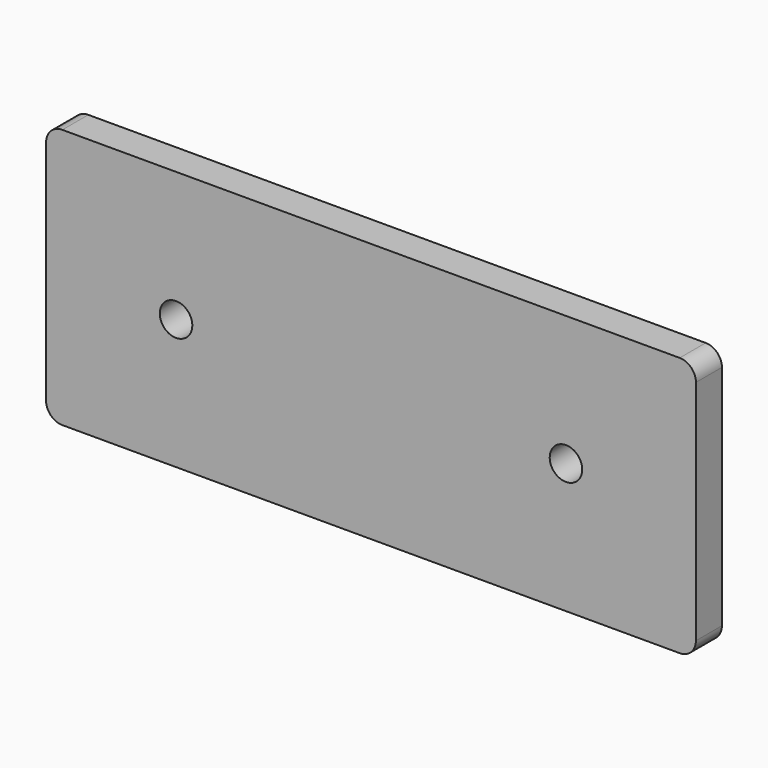
from build123d import *

# Parameters (mm, degrees)
F0_W     = 254
F0_H     = 101.6
F1_DEPTH = 12.7
F2_R     = 6.35
F4_D     = 12.7


with BuildPart() as f1:
    # F0 (on Front) → F1 (new body)
    with BuildSketch(Plane.XZ):
        with Locations((41.985925, 0.762001)):
            Rectangle(F0_W, F0_H)
    extrude(amount=F1_DEPTH)

    # F2
    f2_edges = [f1.edges().sort_by_distance(p)[0] for p in [
        (-85.014075, -6.35, 51.562001),
        (168.985925, -6.35, 51.562001),
        (168.985925, -6.35, -50.037999),
        (-85.014075, -6.35, -50.037999),
    ]]
    fillet(f2_edges, radius=F2_R)

    # F4 (through all)
    with Locations(Plane.XZ.offset(12.7)):
        with Locations((-34.214075, 0.762001), (118.185925, 0.762001)):
            Hole(F4_D / 2)


solid = f1.part
